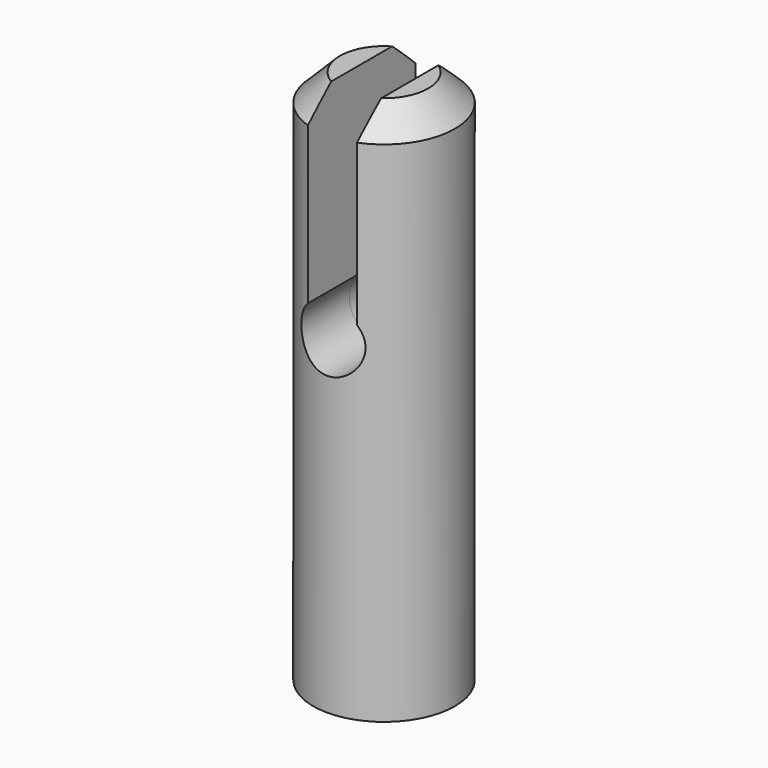
from build123d import *

# Parameters (mm, degrees)
F0_R     = 2.65
F0_R_2   = 1.95
F1_DEPTH = 10
F2_R     = 2.65
F3_DEPTH = 10
F4_SIZE  = 1
F6_DEPTH = 2.7778161572
F7_DEPTH = 2.5241839428


with BuildPart() as f1:
    # F0 (on Top) → F1 (new body)
    with BuildSketch(Plane.XY):
        with Locations((0, 0.1268161572)):
            Circle(F0_R)
        with Locations((0, 0.1268161572)):
            Circle(F0_R_2, mode=Mode.SUBTRACT)
    extrude(amount=F1_DEPTH)

    # F2 (on face) → F3 (join)
    with BuildSketch(Plane.XY.offset(10)):
        with Locations((0, 0.1268161572)):
            Circle(F2_R)
    extrude(amount=F3_DEPTH)

    # F4
    f4_edges = [f1.edges().sort_by_distance(p)[0] for p in [
        (-2.65, 0.126816, 20),
    ]]
    chamfer(f4_edges, length=F4_SIZE)

    # F5 (on Front) → F6 (cut, through all)
    with BuildSketch(Plane.XZ):
        with BuildLine():
            Line((-0.8353080657, 13.1434470012), (-0.8353080657, 12.2838566395))
            Line((-0.8353080657, 12.2838566395), (0.9646919343, 12.2838566395))
            Line((0.9646919343, 12.2838566395), (0.9646919343, 12.9951966612))
            ThreePointArc((0.9646919343, 12.9951966612), (0.0983848931, 13.4784090943), (-0.8353080657, 13.1434470012))
        make_face()
        with BuildLine():
            Line((0.9646919343, 12.2838566395), (-0.8353080657, 12.2838566395))
            Line((-0.8353080657, 12.2838566395), (-0.8353080657, 13.1434470012))
            ThreePointArc((-0.8353080657, 13.1434470012), (-0.4666032996, 11.1798111171), (1.1985971611, 12.2838566395))
            ThreePointArc((1.1985971611, 12.2838566395), (1.1386202546, 12.6582615946), (0.9646919343, 12.9951966612))
            Line((0.9646919343, 12.9951966612), (0.9646919343, 12.2838566395))
        make_face()
        with BuildLine():
            Line((-0.8353080657, 20.0238556888), (-0.8353080657, 13.1434470012))
            ThreePointArc((-0.8353080657, 13.1434470012), (0.0983848931, 13.4784090943), (0.9646919343, 12.9951966612))
            Line((0.9646919343, 12.9951966612), (0.9646919343, 20.0238556888))
            Line((0.9646919343, 20.0238556888), (-0.8353080657, 20.0238556888))
        make_face()
    extrude(amount=-F6_DEPTH, mode=Mode.SUBTRACT)

    # F7 (cut, through all): a face of the model
    f7_faces = [f1.faces().sort_by_distance(p)[0] for p in [
        (0.0489712617, 0, 15.4729630627),
    ]]
    extrude(f7_faces, amount=-F7_DEPTH, mode=Mode.SUBTRACT)


solid = f1.part
